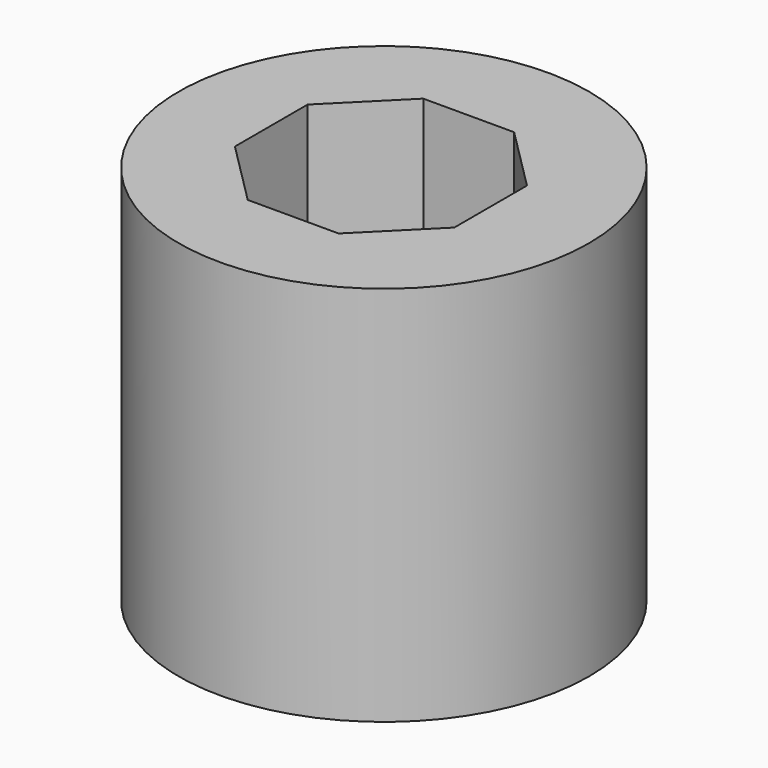
from build123d import *

# Parameters (mm, degrees)
F1_R     = 40.323317
F2_DEPTH = 74.93


with BuildPart() as f2:
    # F1 (on face) → F2 (new body)
    with BuildSketch(Plane.XY):
        with Locations((-14.794339, -26.059359)):
            Circle(F1_R)
        Polygon((-24.354081, -47.538992), (-36.979064, -34.914009), (-36.979064, -17.059587), (-24.354081, -4.434604), (-6.499659, -4.434604), (6.125323, -17.059587), (6.125323, -34.914009), (-6.499659, -47.538992), align=None, mode=Mode.SUBTRACT)
    extrude(amount=F2_DEPTH)


solid = f2.part
